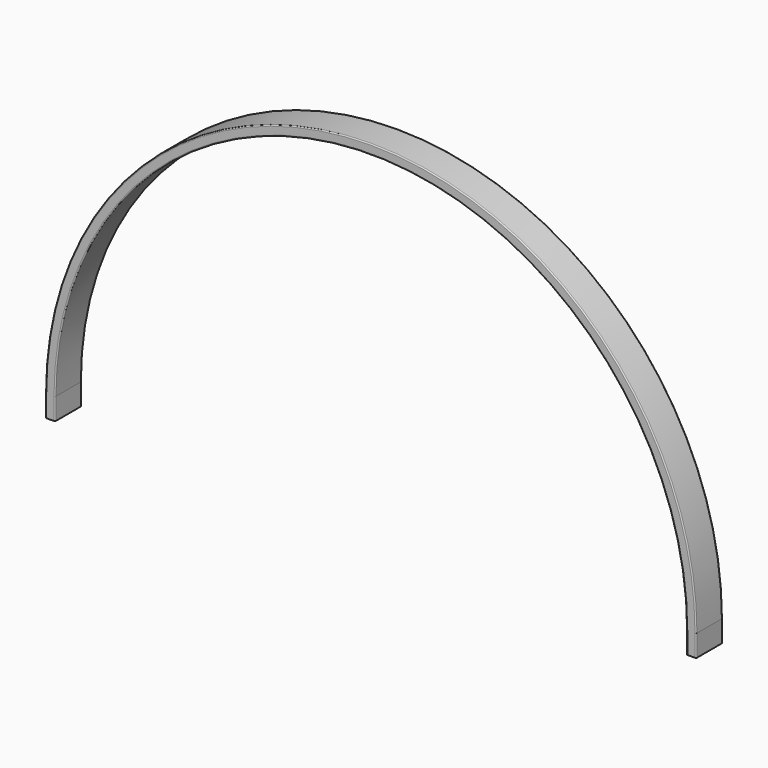
from build123d import *

# Parameters (mm, degrees)
F0_W     = 22
F0_H     = 50
F1_DEPTH = 76
F2_R     = 2.5


with BuildPart() as f1:
    # F0 (on Front) → F1 (new body)
    with BuildSketch(Plane.XZ):
        with BuildLine():
            Line((878, 1050), (900, 1050))
            ThreePointArc((900, 1050), (150, 1800), (-600, 1050))
            Line((-600, 1050), (-578, 1050))
            ThreePointArc((-578, 1050), (150, 1778), (878, 1050))
        make_face()
        with Locations((-589, 1025)):
            Rectangle(F0_W, F0_H)
        with Locations((889, 1025)):
            Rectangle(F0_W, F0_H)
    extrude(amount=F1_DEPTH)

    # F2
    f2_edges = [f1.edges().sort_by_distance(p)[0] for p in [
        (150, 0, 1800),
        (150, -76, 1800),
        (150, -76, 1778),
        (150, 0, 1778),
    ]]
    fillet(f2_edges, radius=F2_R)


solid = f1.part
